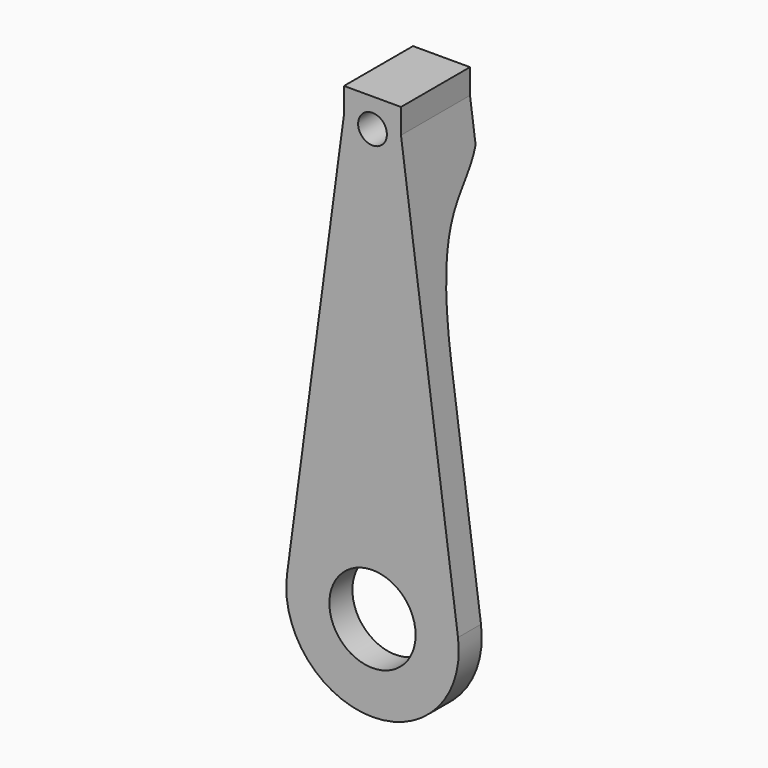
from build123d import *

# Parameters (mm, degrees)
F0_R          = 9.525
F0_R_2        = 3.175
F1_DEPTH      = 9.525
F3_DEPTH      = 19.051
F3_DEPTH_BACK = 25.4


with BuildPart() as f1:
    # F0 (on Front) → F1 (new body, symmetric)
    with BuildSketch(Plane.XZ):
        with BuildLine():
            Line((-6.2933024364, 96.0966666667), (-18.8799073091, 2.54))
            ThreePointArc((-18.8799073091, 2.54), (0, -19.05), (18.8799073091, 2.54))
            Line((18.8799073091, 2.54), (6.2933024364, 96.0966666667))
            Line((6.2933024364, 96.0966666667), (6.2933024364, 101.6))
            Line((6.2933024364, 101.6), (-6.2933024364, 101.6))
            Line((-6.2933024364, 101.6), (-6.2933024364, 96.0966666667))
        make_face()
        Circle(F0_R, mode=Mode.SUBTRACT)
        with Locations((0, 95.25)):
            Circle(F0_R_2, mode=Mode.SUBTRACT)
    extrude(amount=F1_DEPTH, both=True)

    # F2 (on Right) → F3 (cut, two sides)
    with BuildSketch(Plane.YZ) as f3_sk:
        with BuildLine():
            add(Edge.make_bspline(
                [(-3.175, 50.8), (-3.175, 90.6891003251), (12.065, 72.955660522), (12.065, 101.6)],
                knots=[0, 0, 0, 0, 53.0367570653, 53.0367570653, 53.0367570653, 53.0367570653], degree=3))
            Line((-3.175, 50.8), (12.065, 50.8))
            Line((12.065, 50.8), (12.065, 101.6))
        make_face()
        Polygon((12.065, 50.8), (-3.175, 50.8), (-3.175, 0), (-3.175, -21.7861142009), (12.065, -21.7861142009), align=None)
    extrude(amount=-F3_DEPTH, mode=Mode.SUBTRACT)
    extrude(f3_sk.sketch, amount=F3_DEPTH_BACK, mode=Mode.SUBTRACT)


solid = f1.part
